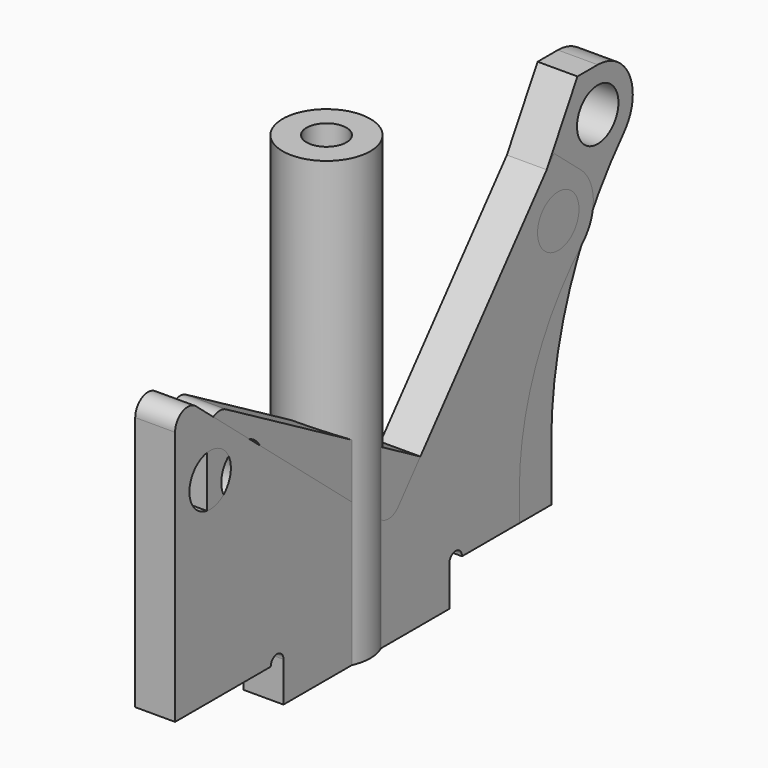
from build123d import *

# Parameters (mm, degrees)
F0_R     = 1.625
F1_DEPTH = 2.5
F2_R     = 1
F3_R     = 1.625
F4_DEPTH = 2.5
F5_R     = 2.75
F5_R_2   = 1.25
F6_DEPTH = 28


with BuildPart() as f1:
    # F0 (on Right) → F1 (new body)
    with BuildSketch(Plane.YZ):
        with BuildLine():
            Line((-12.5, 17.267949), (-12.5, 2.5))
            Line((-12.5, 2.5), (-7.5, 2.5))
            ThreePointArc((-7.5, 2.5), (-7, 3), (-6.5, 2.5))
            Line((-6.5, 2.5), (-6.5, 0))
            Line((-6.5, 0), (6.5, 0))
            Line((6.5, 0), (6.5, 2.5))
            ThreePointArc((6.5, 2.5), (7, 3), (7.5, 2.5))
            Line((7.5, 2.5), (14.5, 2.5))
            Line((14.5, 2.5), (14.5, 5.972831))
            ThreePointArc((14.5, 5.972831), (15.969113, 13.877428), (20.180242, 20.726322))
            ThreePointArc((20.180242, 20.726322), (20.653638, 23.686525), (18.140272, 25.320508))
            Line((18.140272, 25.320508), (16.552559, 25.320508))
            Line((16.552559, 25.320508), (6.552559, 8))
            Line((6.552559, 8), (-11, 18.133975))
            ThreePointArc((-11, 18.133975), (-12, 18.133975), (-12.5, 17.267949))
        make_face()
        with Locations((-9.75, 14.23686)):
            Circle(F0_R, mode=Mode.SUBTRACT)
        with Locations((18.140272, 22.570508)):
            Circle(F0_R, mode=Mode.SUBTRACT)
    extrude(amount=F1_DEPTH)

    # F2
    f2_edges = [f1.edges().sort_by_distance(p)[0] for p in [
        (1.25, 6.552559, 8),
    ]]
    fillet(f2_edges, radius=F2_R)


with BuildPart() as f4:
    # F3 (on Right) → F4 (new body)
    with BuildSketch(Plane.YZ):
        with BuildLine():
            Line((-6.5, 2.5), (-6.5, 0))
            Line((-6.5, 0), (6.5, 0))
            Line((6.5, 0), (6.5, 2.5))
            ThreePointArc((6.5, 2.5), (7, 3), (7.5, 2.5))
            Line((7.5, 2.5), (12, 2.5))
            Line((12, 2.5), (12, 4.389312))
            ThreePointArc((12, 4.389312), (13.288741, 10.680486), (16.947359, 15.958198))
            ThreePointArc((16.947359, 15.958198), (17.796259, 18.035203), (16.815352, 20.053223))
            Line((16.815352, 20.053223), (14.70873, 21.820889))
            Line((14.70873, 21.820889), (2.495765, 7.266044))
            ThreePointArc((2.495765, 7.266044), (1.816877, 6.912637), (1.086933, 7.142788))
            Line((1.086933, 7.142788), (-13.357212, 19.262865))
            ThreePointArc((-13.357212, 19.262865), (-14.422618, 19.403128), (-15, 18.49682))
            Line((-15, 18.49682), (-15, 2.5))
            Line((-15, 2.5), (-7.5, 2.5))
            ThreePointArc((-7.5, 2.5), (-7, 3), (-6.5, 2.5))
        make_face()
        with Locations((-12.25, 14.743933)):
            Circle(F3_R, mode=Mode.SUBTRACT)
        with Locations((15.047686, 17.946601)):
            Circle(F3_R, mode=Mode.SUBTRACT)
    extrude(amount=F4_DEPTH)


with BuildPart() as f6:
    # F5 (on Top) → F6 (new body)
    with BuildSketch(Plane.XY):
        Circle(F5_R)
        Circle(F5_R_2, mode=Mode.SUBTRACT)
    extrude(amount=F6_DEPTH)


solid = Compound([f1.part, f4.part, f6.part])
